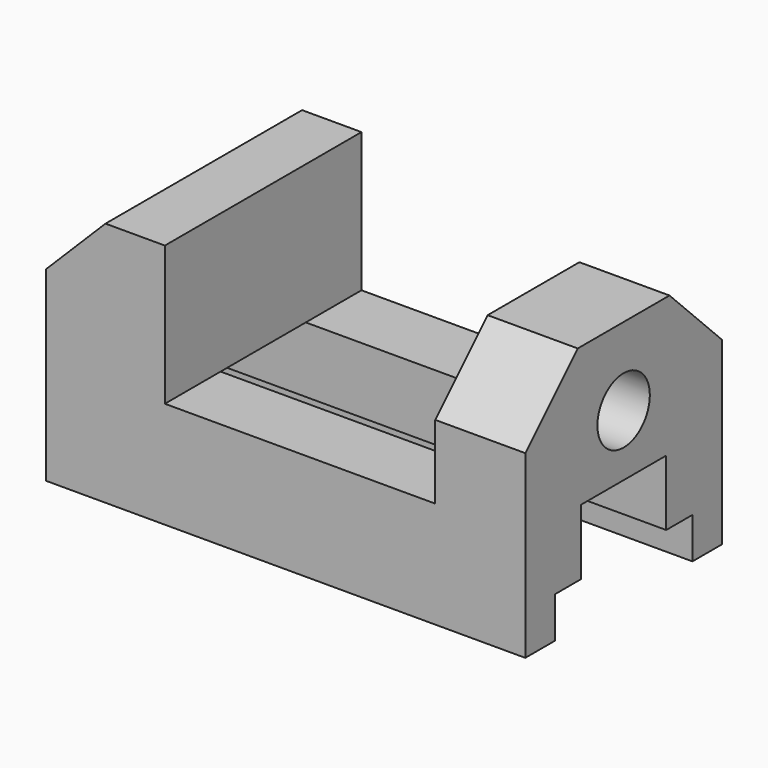
from build123d import *

# Parameters (mm, degrees)
F0_W      = 117
F0_H      = 60
F1_DEPTH  = 60
F2_W      = 66
F2_H      = 34
F3_DEPTH  = 60.001
F5_DEPTH  = 60.001
F7_DEPTH  = 117.001
F9_DEPTH  = 22
F10_R     = 8
F11_DEPTH = 22


with BuildPart() as f1:
    # F0 (on Front) → F1 (new body)
    with BuildSketch(Plane.XZ):
        with Locations((58.5, 30)):
            Rectangle(F0_W, F0_H)
    extrude(amount=F1_DEPTH)

    # F2 (on face) → F3 (cut, through all)
    with BuildSketch(Plane.XZ.offset(60)):
        with Locations((62, 43)):
            Rectangle(F2_W, F2_H)
    extrude(amount=-F3_DEPTH, mode=Mode.SUBTRACT)

    # F4 (on face) → F5 (cut, through all)
    with BuildSketch(Plane.XZ.offset(60)):
        Polygon((0, 45.5), (14.5, 60), (0, 60), align=None)
    extrude(amount=-F5_DEPTH, mode=Mode.SUBTRACT)

    # F6 (on face) → F7 (cut, through all)
    with BuildSketch(Plane.YZ.offset(117)):
        Polygon((-51, 10), (-51, 0), (-9, 0), (-9, 10), (-17, 10), (-17, 26), (-43, 26), (-43, 10), align=None)
    extrude(amount=-F7_DEPTH, mode=Mode.SUBTRACT)

    # F8 (on face) → F9 (cut)
    with BuildSketch(Plane.YZ.offset(117)):
        Polygon((-44, 60), (-60, 60), (-60, 44), align=None)
        Polygon((0, 60), (-16, 60), (0, 44), align=None)
    extrude(amount=-F9_DEPTH, mode=Mode.SUBTRACT)

    # F10 (on face) → F11 (cut)
    with BuildSketch(Plane.YZ.offset(117)):
        with Locations((-30, 41)):
            Circle(F10_R)
    extrude(amount=-F11_DEPTH, mode=Mode.SUBTRACT)


solid = f1.part
